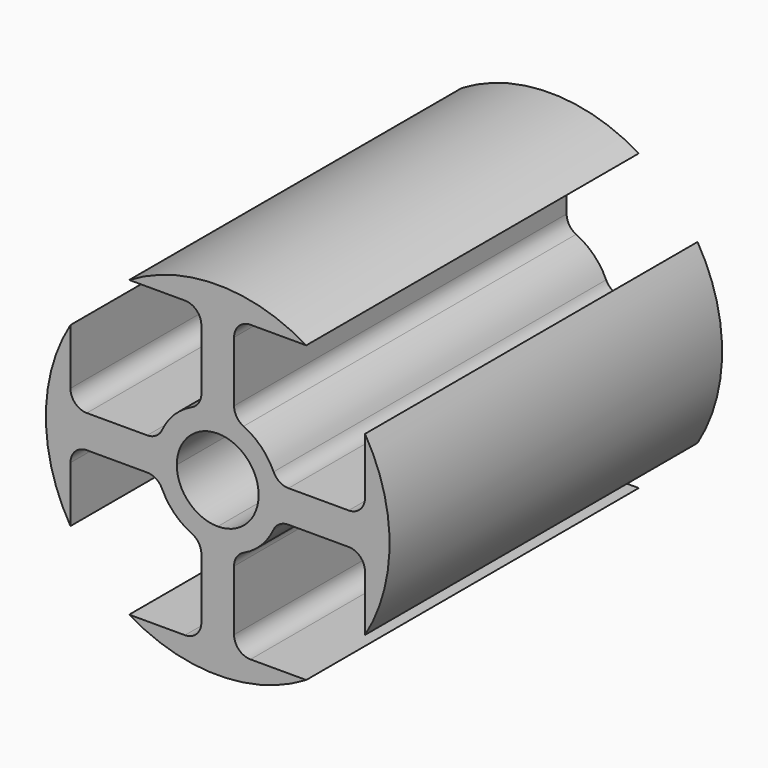
from build123d import *

# Parameters (mm, degrees)
F1_DEPTH = 25.4
F2_R     = 1


with BuildPart() as f1:
    # F0 (on Front) → F1 (new body)
    with BuildSketch(Plane.XZ):
        with BuildLine():
            Line((-9, 1), (-9, 5.408327))
            ThreePointArc((-9, 5.408327), (-10.5, 0), (-9, -5.408327))
            Line((-9, -5.408327), (-9, -1))
            Line((-9, -1), (-9, 0))
            Line((-9, 0), (-9, 1))
        make_face()
        with BuildLine():
            Line((-3.614208, 1), (-9, 1))
            Line((-9, 1), (-9, 0))
            Line((-9, 0), (-3.75, 0))
            ThreePointArc((-3.75, 0), (-3.715897, 0.504589), (-3.614208, 1))
        make_face()
        with BuildLine():
            Line((-9, 0), (-9, -1))
            Line((-9, -1), (-3.614208, -1))
            ThreePointArc((-3.614208, -1), (-3.715897, -0.504589), (-3.75, 0))
            Line((-3.75, 0), (-9, 0))
        make_face()
        with BuildLine():
            ThreePointArc((-1, 3.614208), (-2.65165, 2.65165), (-3.614208, 1))
            ThreePointArc((-3.614208, 1), (-3.715897, 0.504589), (-3.75, 0))
            ThreePointArc((-3.75, 0), (-3.715897, -0.504589), (-3.614208, -1))
            ThreePointArc((-3.614208, -1), (-2.65165, -2.65165), (-1, -3.614208))
            ThreePointArc((-1, -3.614208), (-0.504589, -3.715897), (0, -3.75))
            ThreePointArc((0, -3.75), (0.504589, -3.715897), (1, -3.614208))
            ThreePointArc((1, -3.614208), (2.65165, -2.65165), (3.614208, -1))
            ThreePointArc((3.614208, -1), (3.715897, -0.504589), (3.75, 0))
            ThreePointArc((3.75, 0), (3.71839, 0.485877), (3.624093, 0.963562))
            ThreePointArc((3.624093, 0.963562), (2.664965, 2.638268), (1, 3.614208))
            ThreePointArc((1, 3.614208), (0.504589, 3.715897), (0, 3.75))
            ThreePointArc((0, 3.75), (-0.504589, 3.715897), (-1, 3.614208))
        make_face()
        with BuildLine():
            ThreePointArc((0, 2.5), (1.767767, 1.767767), (2.5, 0))
            ThreePointArc((2.5, 0), (1.767767, -1.767767), (0, -2.5))
            ThreePointArc((0, -2.5), (-1.767767, -1.767767), (-2.5, 0))
            ThreePointArc((-2.5, 0), (-1.767767, 1.767767), (0, 2.5))
        make_face(mode=Mode.SUBTRACT)
        with BuildLine():
            Line((-1, 9), (-1, 3.614208))
            ThreePointArc((-1, 3.614208), (-0.504589, 3.715897), (0, 3.75))
            Line((0, 3.75), (0, 9))
            Line((0, 9), (-1, 9))
        make_face()
        with BuildLine():
            ThreePointArc((0, -3.75), (-0.504589, -3.715897), (-1, -3.614208))
            Line((-1, -3.614208), (-1, -9))
            Line((-1, -9), (0, -9))
            Line((0, -9), (0, -3.75))
        make_face()
        with BuildLine():
            Line((-5.408327, 9), (-1, 9))
            Line((-1, 9), (0, 9))
            Line((0, 9), (1, 9))
            Line((1, 9), (5.408327, 9))
            ThreePointArc((5.408327, 9), (0, 10.5), (-5.408327, 9))
        make_face()
        with BuildLine():
            Line((0, 9), (0, 3.75))
            ThreePointArc((0, 3.75), (0.504589, 3.715897), (1, 3.614208))
            Line((1, 3.614208), (1, 9))
            Line((1, 9), (0, 9))
        make_face()
        with BuildLine():
            Line((0, -9), (-1, -9))
            Line((-1, -9), (-5.408327, -9))
            ThreePointArc((-5.408327, -9), (0, -10.5), (5.408327, -9))
            Line((5.408327, -9), (1, -9))
            Line((1, -9), (0, -9))
        make_face()
        with BuildLine():
            ThreePointArc((1, -3.614208), (0.504589, -3.715897), (0, -3.75))
            Line((0, -3.75), (0, -9))
            Line((0, -9), (1, -9))
            Line((1, -9), (1, -3.614208))
        make_face()
        with BuildLine():
            Line((9, 0.963562), (3.624093, 0.963562))
            ThreePointArc((3.624093, 0.963562), (3.71839, 0.485877), (3.75, 0))
            Line((3.75, 0), (9, 0))
            Line((9, 0), (9, 0.963562))
        make_face()
        with BuildLine():
            ThreePointArc((3.75, 0), (3.715897, -0.504589), (3.614208, -1))
            Line((3.614208, -1), (9, -1))
            Line((9, -1), (9, 0))
            Line((9, 0), (3.75, 0))
        make_face()
        with BuildLine():
            Line((9, 5.408327), (9, 0.963562))
            Line((9, 0.963562), (9, 0))
            Line((9, 0), (9, -1))
            Line((9, -1), (9, -5.408327))
            ThreePointArc((9, -5.408327), (10.5, 0), (9, 5.408327))
        make_face()
    extrude(amount=F1_DEPTH)

    # F2
    f2_edges = [f1.edges().sort_by_distance(p)[0] for p in [
        (-3.614208, -12.7, -1),
        (-9, -12.7, -1),
        (-9, -12.7, 1),
        (3.624093, -12.7, 0.963562),
        (1, -12.7, 3.614208),
        (1, -12.7, -3.614208),
        (3.614208, -12.7, -1),
        (1, -12.7, -9),
        (-1, -12.7, -9),
        (-1, -12.7, 9),
        (1, -12.7, 9),
        (9, -12.7, -1),
        (9, -12.7, 0.963562),
        (-1, -12.7, 3.614208),
        (-3.614208, -12.7, 1),
        (-1, -12.7, -3.614208),
    ]]
    fillet(f2_edges, radius=F2_R)


solid = f1.part
